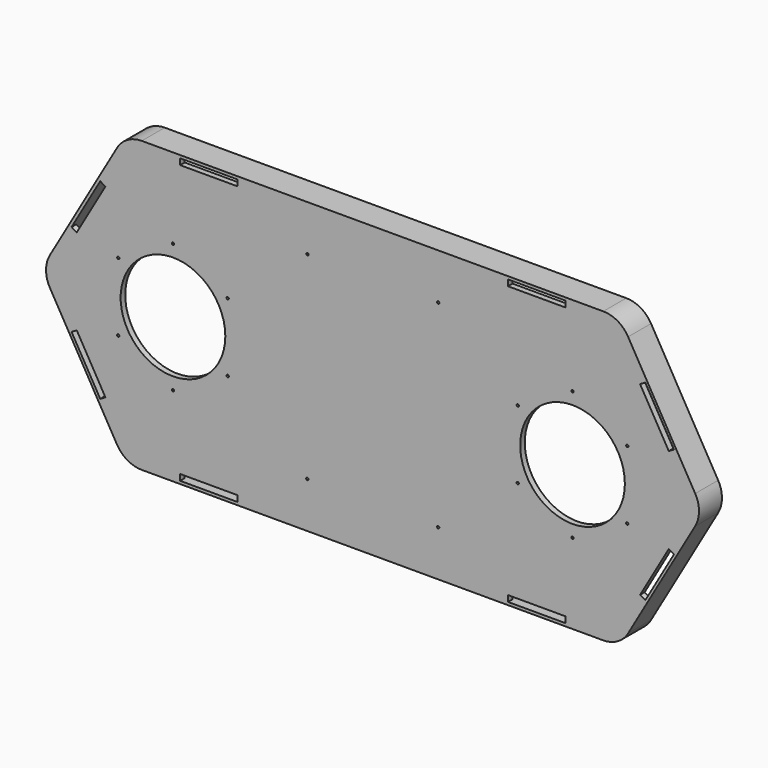
from build123d import *

# Parameters (mm, degrees)
F0_R     = 1.016
F0_R_2   = 46.355
F1_DEPTH = 5.08
F3_DEPTH = 25.4


with BuildPart() as f1:
    # F0 (on Front) → F1 (new body)
    with BuildSketch(Plane.XZ):
        with BuildLine():
            Line((217.7707480356, 125.73), (72.5902493452, 125.73))
            Line((72.5902493452, 125.73), (25.4, 125.73))
            Line((25.4, 125.73), (25.4, 120.396))
            Line((25.4, 120.396), (-25.4, 120.396))
            Line((-25.4, 120.396), (-25.4, 125.73))
            Line((-25.4, 125.73), (-57.9255525078, 125.73))
            ThreePointArc((-57.9255525078, 125.73), (-70.6255525078, 122.3270452561), (-79.9225977639, 113.03))
            Line((-79.9225977639, 113.03), (-96.1853740178, 84.8620452561))
            Line((-96.1853740178, 84.8620452561), (-91.565994514, 82.1950452561))
            Line((-91.565994514, 82.1950452561), (-116.965994514, 38.2009547439))
            Line((-116.965994514, 38.2009547439), (-121.5853740178, 40.8679547439))
            Line((-121.5853740178, 40.8679547439), (-137.8481502717, 12.7))
            ThreePointArc((-137.8481502717, 12.7), (-141.2511050156, 0), (-137.8481502717, -12.7))
            Line((-137.8481502717, -12.7), (-121.5853740178, -40.8679547439))
            Line((-121.5853740178, -40.8679547439), (-116.965994514, -38.2009547439))
            Line((-116.965994514, -38.2009547439), (-91.565994514, -82.1950452561))
            Line((-91.565994514, -82.1950452561), (-96.1853740178, -84.8620452561))
            Line((-96.1853740178, -84.8620452561), (-79.9225977639, -113.03))
            ThreePointArc((-79.9225977639, -113.03), (-70.6255525078, -122.3270452561), (-57.9255525078, -125.73))
            Line((-57.9255525078, -125.73), (-25.4, -125.73))
            Line((-25.4, -125.73), (-25.4, -120.396))
            Line((-25.4, -120.396), (25.4, -120.396))
            Line((25.4, -120.396), (25.4, -125.73))
            Line((25.4, -125.73), (72.5902493452, -125.73))
            Line((72.5902493452, -125.73), (217.7707480356, -125.73))
            Line((217.7707480356, -125.73), (264.9609973808, -125.73))
            Line((264.9609973808, -125.73), (264.9609973808, -120.396))
            Line((264.9609973808, -120.396), (315.7609973808, -120.396))
            Line((315.7609973808, -120.396), (315.7609973808, -125.73))
            Line((315.7609973808, -125.73), (348.2865498886, -125.73))
            ThreePointArc((348.2865498886, -125.73), (360.9865498886, -122.3270452561), (370.2835951448, -113.03))
            Line((370.2835951448, -113.03), (386.5463713987, -84.8620452561))
            Line((386.5463713987, -84.8620452561), (381.9269918949, -82.1950452561))
            Line((381.9269918949, -82.1950452561), (407.3269918949, -38.2009547439))
            Line((407.3269918949, -38.2009547439), (411.9463713987, -40.8679547439))
            Line((411.9463713987, -40.8679547439), (428.2091476526, -12.7))
            ThreePointArc((428.2091476526, -12.7), (431.6121023964, 0), (428.2091476526, 12.7))
            Line((428.2091476526, 12.7), (411.9463713987, 40.8679547439))
            Line((411.9463713987, 40.8679547439), (407.3269918949, 38.2009547439))
            Line((407.3269918949, 38.2009547439), (381.9269918949, 82.1950452561))
            Line((381.9269918949, 82.1950452561), (386.5463713987, 84.8620452561))
            Line((386.5463713987, 84.8620452561), (370.2835951448, 113.03))
            ThreePointArc((370.2835951448, 113.03), (360.9865498886, 122.3270452561), (348.2865498886, 125.73))
            Line((348.2865498886, 125.73), (315.7609973808, 125.73))
            Line((315.7609973808, 125.73), (315.7609973808, 120.396))
            Line((315.7609973808, 120.396), (264.9609973808, 120.396))
            Line((264.9609973808, 120.396), (264.9609973808, 125.73))
            Line((264.9609973808, 125.73), (217.7707480356, 125.73))
        make_face()
        with Locations((87.2430986904, -87.63)):
            Circle(F0_R, mode=Mode.SUBTRACT)
        with Locations((-31.75, -57.15)):
            Circle(F0_R, mode=Mode.SUBTRACT)
        with Locations((-80.2159486953, -30.2848859509)):
            Circle(F0_R, mode=Mode.SUBTRACT)
        with Locations((16.7159486953, -30.2848859509)):
            Circle(F0_R, mode=Mode.SUBTRACT)
        with Locations((203.1178986904, -87.63)):
            Circle(F0_R, mode=Mode.SUBTRACT)
        with Locations((273.6450486855, -30.2848859509)):
            Circle(F0_R, mode=Mode.SUBTRACT)
        with Locations((322.1109973808, -57.15)):
            Circle(F0_R, mode=Mode.SUBTRACT)
        with Locations((370.5769460762, -30.2848859509)):
            Circle(F0_R, mode=Mode.SUBTRACT)
        with Locations((-80.2159486953, 30.2848859509)):
            Circle(F0_R, mode=Mode.SUBTRACT)
        with Locations((-31.75, 0)):
            Circle(F0_R_2, mode=Mode.SUBTRACT)
        with Locations((-31.75, 57.15)):
            Circle(F0_R, mode=Mode.SUBTRACT)
        with Locations((16.7159486953, 30.2848859509)):
            Circle(F0_R, mode=Mode.SUBTRACT)
        with Locations((87.2430986904, 87.63)):
            Circle(F0_R, mode=Mode.SUBTRACT)
        with Locations((273.6450486855, 30.2848859509)):
            Circle(F0_R, mode=Mode.SUBTRACT)
        with Locations((322.1109973808, 0)):
            Circle(F0_R_2, mode=Mode.SUBTRACT)
        with Locations((370.5769460762, 30.2848859509)):
            Circle(F0_R, mode=Mode.SUBTRACT)
        with Locations((322.1109973808, 57.15)):
            Circle(F0_R, mode=Mode.SUBTRACT)
        with Locations((203.1178986904, 87.63)):
            Circle(F0_R, mode=Mode.SUBTRACT)
    extrude(amount=F1_DEPTH)

    # F2 (on face) → F3 (join)
    with BuildSketch(Plane.XZ.offset(5.08)):
        with BuildLine():
            Line((74.056719029, 128.27), (-59.3920221915, 128.27))
            ThreePointArc((-59.3920221915, 128.27), (-72.0920221915, 124.8670452561), (-81.3890674477, 115.57))
            Line((-81.3890674477, 115.57), (-140.7810896392, 12.7))
            ThreePointArc((-140.7810896392, 12.7), (-144.1840443831, 0), (-140.7810896392, -12.7))
            Line((-140.7810896392, -12.7), (-81.3890674477, -115.57))
            ThreePointArc((-81.3890674477, -115.57), (-72.0920221915, -124.8670452561), (-59.3920221915, -128.27))
            Line((-59.3920221915, -128.27), (74.056719029, -128.27))
            Line((74.056719029, -128.27), (349.3600802049, -128.27))
            ThreePointArc((349.3600802049, -128.27), (362.0600802049, -124.8670452561), (371.357125461, -115.57))
            Line((371.357125461, -115.57), (430.7491476526, -12.7))
            ThreePointArc((430.7491476526, -12.7), (434.1521023964, 0), (430.7491476526, 12.7))
            Line((430.7491476526, 12.7), (371.357125461, 115.57))
            ThreePointArc((371.357125461, 115.57), (362.0600802049, 124.8670452561), (349.3600802049, 128.27))
            Line((349.3600802049, 128.27), (215.9113389844, 128.27))
            Line((215.9113389844, 128.27), (74.056719029, 128.27))
        make_face()
        with BuildLine():
            Line((-57.9255525078, 125.73), (-25.4, 125.73))
            Line((-25.4, 125.73), (25.4, 125.73))
            Line((25.4, 125.73), (264.9609973808, 125.73))
            Line((264.9609973808, 125.73), (315.7609973808, 125.73))
            Line((315.7609973808, 125.73), (348.2865498886, 125.73))
            ThreePointArc((348.2865498886, 125.73), (360.9865498886, 122.3270452561), (370.2835951448, 113.03))
            Line((370.2835951448, 113.03), (386.5463713987, 84.8620452561))
            Line((386.5463713987, 84.8620452561), (411.9463713987, 40.8679547439))
            Line((411.9463713987, 40.8679547439), (428.2091476526, 12.7))
            ThreePointArc((428.2091476526, 12.7), (431.6121023964, 0), (428.2091476526, -12.7))
            Line((428.2091476526, -12.7), (411.9463713987, -40.8679547439))
            Line((411.9463713987, -40.8679547439), (386.5463713987, -84.8620452561))
            Line((386.5463713987, -84.8620452561), (370.2835951448, -113.03))
            ThreePointArc((370.2835951448, -113.03), (360.9865498886, -122.3270452561), (348.2865498886, -125.73))
            Line((348.2865498886, -125.73), (315.7609973808, -125.73))
            Line((315.7609973808, -125.73), (264.9609973808, -125.73))
            Line((264.9609973808, -125.73), (25.4, -125.73))
            Line((25.4, -125.73), (-25.4, -125.73))
            Line((-25.4, -125.73), (-57.9255525078, -125.73))
            ThreePointArc((-57.9255525078, -125.73), (-70.6255525078, -122.3270452561), (-79.9225977639, -113.03))
            Line((-79.9225977639, -113.03), (-96.1853740178, -84.8620452561))
            Line((-96.1853740178, -84.8620452561), (-121.5853740178, -40.8679547439))
            Line((-121.5853740178, -40.8679547439), (-137.8481502717, -12.7))
            ThreePointArc((-137.8481502717, -12.7), (-141.2511050156, 0), (-137.8481502717, 12.7))
            Line((-137.8481502717, 12.7), (-121.5853740178, 40.8679547439))
            Line((-121.5853740178, 40.8679547439), (-96.1853740178, 84.8620452561))
            Line((-96.1853740178, 84.8620452561), (-79.9225977639, 113.03))
            ThreePointArc((-79.9225977639, 113.03), (-70.6255525078, 122.3270452561), (-57.9255525078, 125.73))
        make_face(mode=Mode.SUBTRACT)
    extrude(amount=-F3_DEPTH)


solid = f1.part
